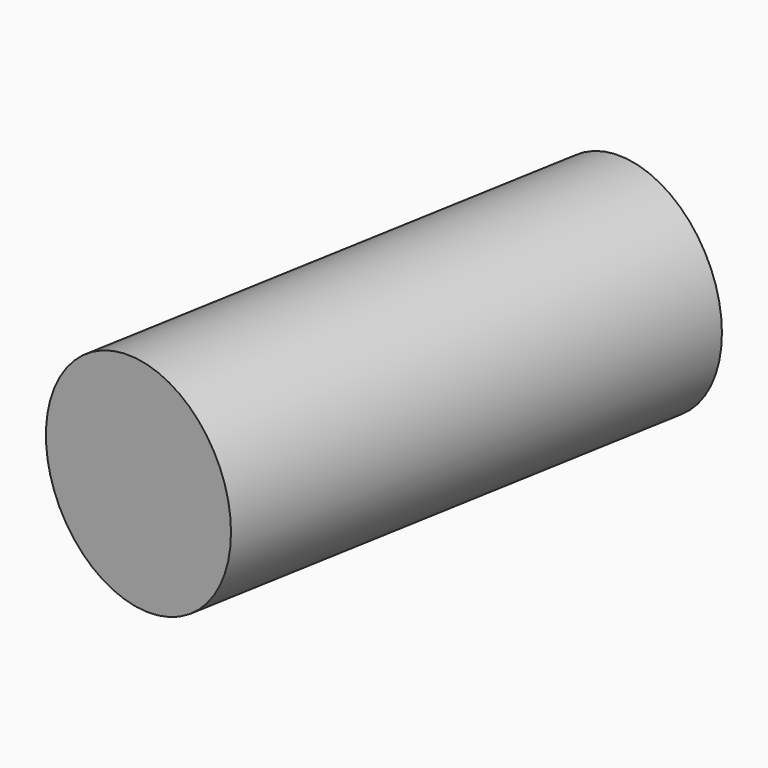
from build123d import *

# Parameters (mm, degrees)
CYLINDER036_R               = 1.25
CYLINDER036_DEPTH           = 14
CYLINDER036_ROLL_ANGLE      = -89.999776
CYLINDER036_PITCH_ANGLE     = 1.4e-05
CYLINDER036_PLACEMENT_ANGLE = -9.999925
CYLINDER030_R               = 3
CYLINDER030_DEPTH           = 14
CYLINDER030_ROLL_ANGLE      = -89.999776
CYLINDER030_PITCH_ANGLE     = 1.4e-05
CYLINDER030_PLACEMENT_ANGLE = -9.999925


with BuildPart() as cylinder036:
    # Cylinder036 → Cylinder036 (new body)
    with BuildSketch(Plane.XY):
        Circle(CYLINDER036_R)
    extrude(amount=CYLINDER036_DEPTH)


with BuildPart() as cylinder036_1:
    # Cylinder036 roll: moved
    add(cylinder036.part.rotate(Axis((0, 0, 0), (1, 0, 0)), CYLINDER036_ROLL_ANGLE))


with BuildPart() as cylinder036_2:
    # Cylinder036 pitch: moved
    add(cylinder036_1.part.rotate(Axis((0, 0, 0), (0, 1, 0)), CYLINDER036_PITCH_ANGLE))


with BuildPart() as cylinder036_3:
    # Cylinder036 placement: moved
    add(cylinder036_2.part.moved(Location((39.936529, -25.15494, 7.500007))).rotate(Axis((39.936529, -25.15494, 7.500007), (0, 0, 1)), CYLINDER036_PLACEMENT_ANGLE))


with BuildPart() as cut035:
    # Cylinder030 → Cylinder030 (new body)
    with BuildSketch(Plane.XY):
        Circle(CYLINDER030_R)
    extrude(amount=CYLINDER030_DEPTH)


with BuildPart() as cut035_1:
    # Cylinder030 roll: moved
    add(cut035.part.rotate(Axis((0, 0, 0), (1, 0, 0)), CYLINDER030_ROLL_ANGLE))


with BuildPart() as cut035_2:
    # Cylinder030 pitch: moved
    add(cut035_1.part.rotate(Axis((0, 0, 0), (0, 1, 0)), CYLINDER030_PITCH_ANGLE))


with BuildPart() as cut035_3:
    # Cylinder030 placement: moved
    add(cut035_2.part.moved(Location((39.589235, -27.124556, 7.499999))).rotate(Axis((39.589235, -27.124556, 7.499999), (0, 0, 1)), CYLINDER030_PLACEMENT_ANGLE))

    # Cut035: cut Cylinder036
    add(cylinder036_3.part, mode=Mode.SUBTRACT)


solid = cut035_3.part
